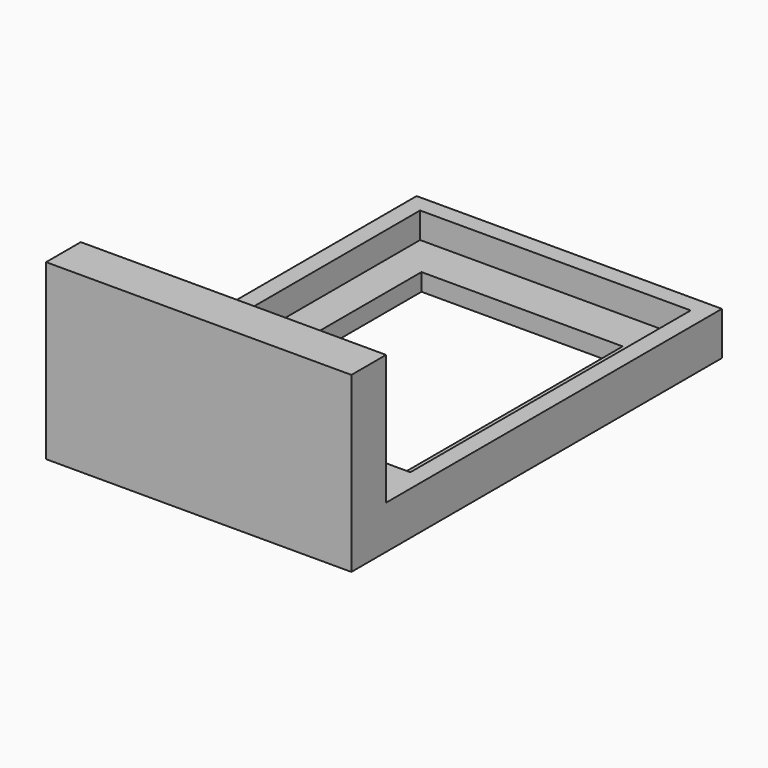
from build123d import *

# Parameters (mm, degrees)
F0_W     = 22.352
F0_H     = 30.734
F0_W_2   = 14.732
F0_H_2   = 20.066
F1_DEPTH = 3.175
F2_W     = 19.812
F2_H     = 25.654
F2_W_2   = 14.732
F2_H_2   = 20.066
F3_DEPTH = 1.905
F0_H_3   = 3.175
F4_DEPTH = 12.7


with BuildPart() as f1:
    # F0 (on Top) → F1 (new body)
    with BuildSketch(Plane.XY):
        with Locations((11.176, 15.367)):
            Rectangle(F0_W, F0_H)
        with Locations((11.176, 16.383)):
            Rectangle(F0_W_2, F0_H_2, mode=Mode.SUBTRACT)
    extrude(amount=F1_DEPTH)

    # F2 (on face) → F3 (cut)
    with BuildSketch(Plane.XY.offset(3.175)):
        with Locations((11.176, 16.637)):
            Rectangle(F2_W, F2_H)
        with Locations((11.176, 16.383)):
            Rectangle(F2_W_2, F2_H_2, mode=Mode.SUBTRACT)
    extrude(amount=-F3_DEPTH, mode=Mode.SUBTRACT)

    # F0 (on Top) → F4 (join)
    with BuildSketch(Plane.XY):
        with Locations((11.176, -1.5875)):
            Rectangle(F0_W, F0_H_3)
    extrude(amount=F4_DEPTH)


solid = f1.part
